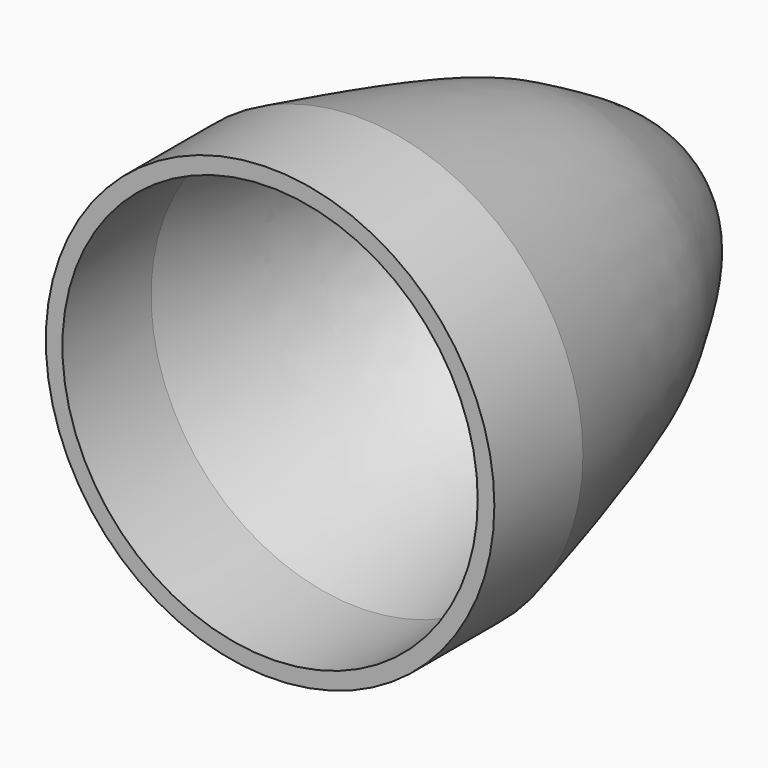
from build123d import *


with BuildPart() as part:
    # Sketch → Revolution (revolve)
    with BuildSketch(Plane.XY):
        with BuildLine():
            Line((37.5, 40), (37.5, 60))
            add(Edge.make_bspline(
                [(37.5, 60), (30.535178, 94.15938), (24.7188, 104.103497), (12.651008, 126.122638), (0, 127)],
                knots=[0, 0, 0, 0, 0.5, 1, 1, 1, 1], degree=3))
            Line((0, 127), (0, 130))
            add(Edge.make_bspline(
                [(40.5, 60), (31.5, 97), (25.5, 107), (13.5, 129), (0, 130), (0, 130)],
                knots=[0, 0, 0, 0, 0.333333, 0.666667, 1, 1, 1, 1], degree=3))
            Line((40.5, 60), (40.5, 40))
            Line((40.5, 40), (37.5, 40))
        make_face()
    revolve(axis=Axis((0, 0, 0), (0, 1, 0)))


solid = part.part
